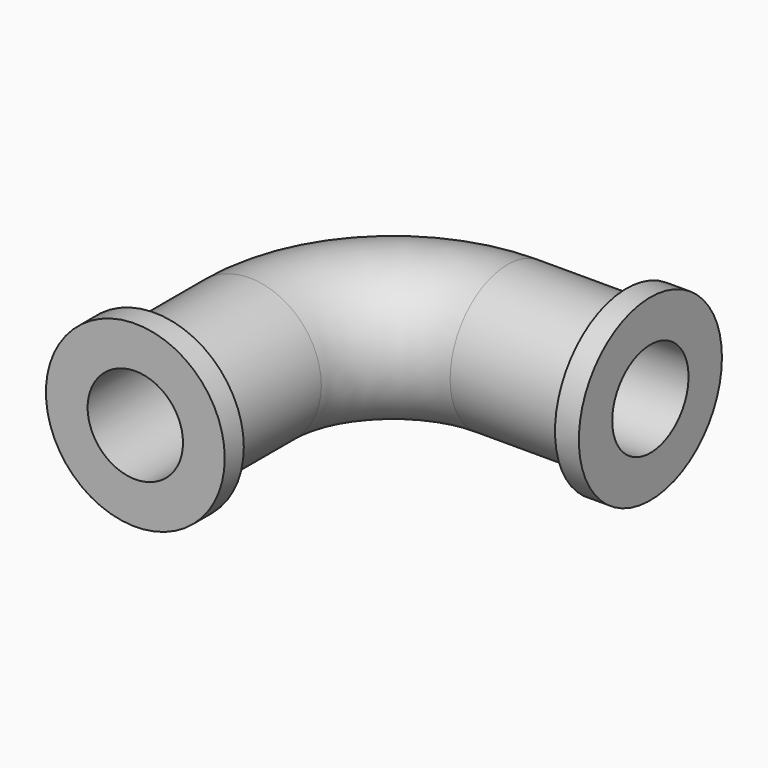
from build123d import *

# Parameters (mm, degrees)
F0_R     = 76.2
F3_T     = -25.4
F0_R_2   = 95.25
F4_DEPTH = 25.4
F6_R     = 95.25
F6_R_2   = 76.2
F7_DEPTH = 25.4


with BuildPart() as f2:
    # F2: sweep along a path in F1
    with BuildLine(Plane.XY) as f2_path:
        Line((0, 0), (0, 152.4))
        ThreePointArc((0, 152.4), (44.6369265472, 260.1630734528), (152.4, 304.8))
        Line((152.4, 304.8), (304.8, 304.8))
    # F0 (on Front) → F2 (sweep)
    with BuildSketch(Plane.XZ):
        Circle(F0_R)
    sweep(path=f2_path.line)

    # F3
    f3_openings = [f2.faces().sort_by_distance(p)[0] for p in [
        (0, 0, 0),
        (304.8, 304.8, 0),
    ]]
    offset(amount=F3_T, openings=f3_openings)

    # F0 (on Front) → F4 (join)
    with BuildSketch(Plane.XZ):
        Circle(F0_R_2)
        Circle(F0_R, mode=Mode.SUBTRACT)
    extrude(amount=-F4_DEPTH)

    # F6 (on line) → F7 (join)
    with BuildSketch(Plane.YZ.offset(304.8)):
        with Locations((304.8, 0)):
            Circle(F6_R)
        with Locations((304.8, 0)):
            Circle(F6_R_2, mode=Mode.SUBTRACT)
    extrude(amount=-F7_DEPTH)


solid = f2.part
